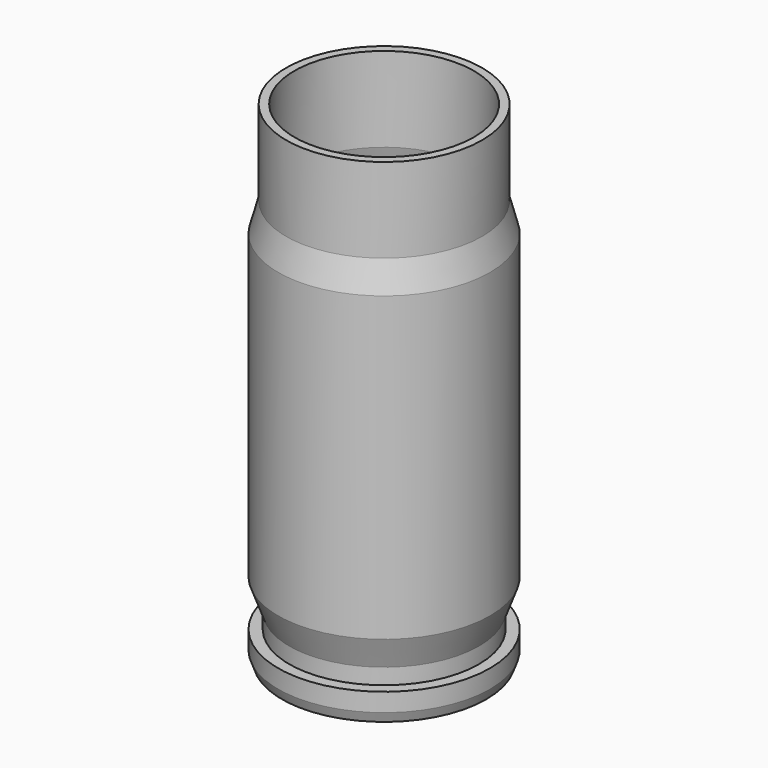
from build123d import *


with BuildPart() as f1:
    # F0 (on Front) → F1 (revolve)
    with BuildSketch(Plane.XZ):
        Polygon((2.2225, 3.048), (2.2225, 0), (4.106582, 0), (4.2545, 0.4064), (4.2545, 1.143), (3.81, 1.143), (3.81, 1.778), (4.2545, 2.999254), (4.2545, 15.1384), (3.937, 16.3068), (3.937, 19.7104), (3.6068, 19.7104), (3.6068, 16.3068), (3.9243, 15.1384), (3.8735, 3.81), (0.9398, 3.81), (0.9398, 3.048), align=None)
    revolve(axis=Axis((0, 0, 11.499301), (0, 0, 1)))


with BuildPart() as f2_1:
    # F2: copy of F1
    add(f1.part)


solid = f1.part
